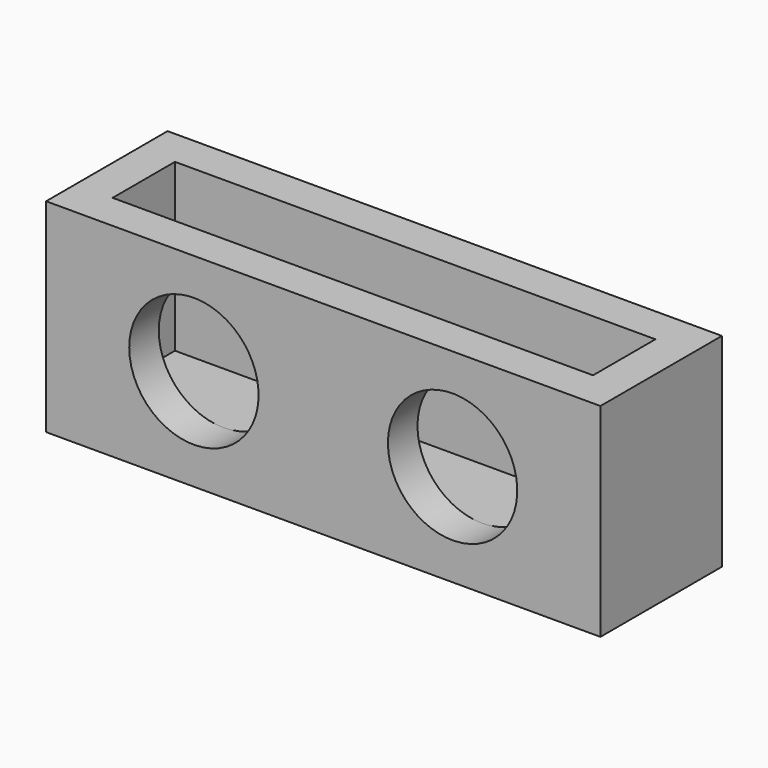
from build123d import *

# Parameters (mm, degrees)
F0_W     = 38.1
F0_H     = 10.4394
F1_DEPTH = 13.97
F2_T     = -2.54
F4_D     = 8.89
F4_DEPTH = 2.54


with BuildPart() as f1:
    # F0 (on Top) → F1 (new body)
    with BuildSketch(Plane.XY):
        Rectangle(F0_W, F0_H)
    extrude(amount=F1_DEPTH)

    # F2
    f2_openings = [f1.faces().sort_by_distance(p)[0] for p in [
        (0, 0, 13.97),
    ]]
    offset(amount=F2_T, openings=f2_openings)

    # F4
    with Locations(Plane.XZ.offset(5.2197)):
        with Locations((-8.89, 6.985), (8.89, 6.985)):
            Hole(F4_D / 2, depth=F4_DEPTH)


solid = f1.part
